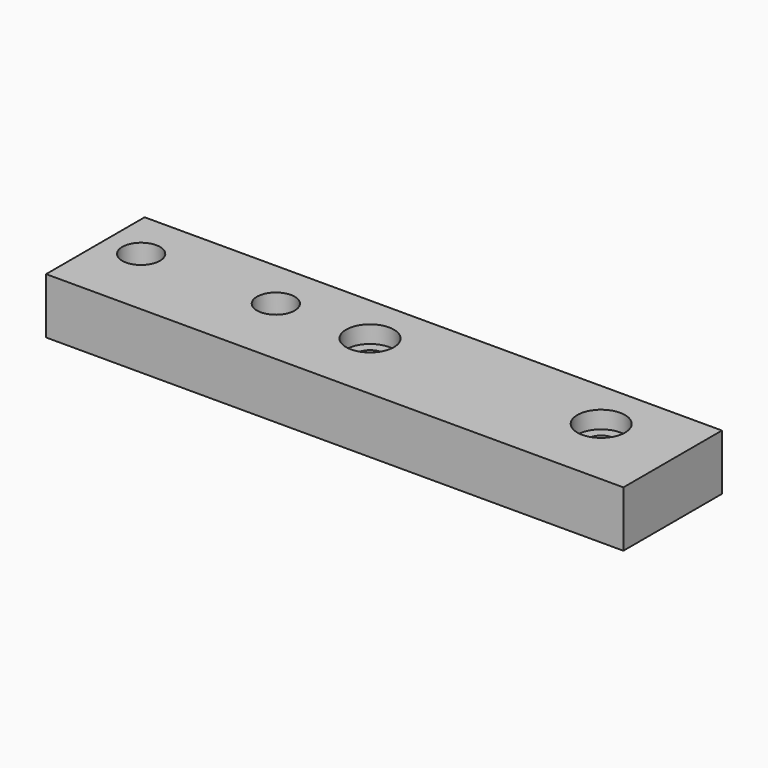
from build123d import *

# Parameters (mm, degrees)
F1_DEPTH = 13
F2_R     = 1.35
F2_R_2   = 1.75
F3_DEPTH = 7.25
F2_R_3   = 2.45
F4_DEPTH = 5.25
F2_R_4   = 3.1
F5_DEPTH = 2.25
F6_W     = 72
F6_H     = 3
F7_DEPTH = 7.25


with BuildPart() as f1:
    # F0 (on Front) → F1 (new body)
    with BuildSketch(Plane.XZ):
        Polygon((0, -4.25), (0, 0), (45, 0), (45, 3), (0, 3), (-27, 3), (-27, -4.25), align=None)
    extrude(amount=F1_DEPTH)

    # F2 (on face) → F3 (cut, through all)
    with BuildSketch(Plane.XY.offset(3)):
        with Locations((-4.75, -6.5)):
            Circle(F2_R)
        with Locations((-22.25, -6.5)):
            Circle(F2_R)
        with Locations((7.485, -6.5)):
            Circle(F2_R_2)
        with Locations((37.515, -6.5)):
            Circle(F2_R_2)
    extrude(amount=-F3_DEPTH, mode=Mode.SUBTRACT)

    # F2 (on face) → F4 (cut, through all)
    with BuildSketch(Plane.XY.offset(3)):
        with Locations((-4.75, -6.5)):
            Circle(F2_R_3)
        with Locations((-4.75, -6.5)):
            Circle(F2_R, mode=Mode.SUBTRACT)
        with Locations((-22.25, -6.5)):
            Circle(F2_R_3)
        with Locations((-22.25, -6.5)):
            Circle(F2_R, mode=Mode.SUBTRACT)
    extrude(amount=-F4_DEPTH, mode=Mode.SUBTRACT)

    # F2 (on face) → F5 (cut, through all)
    with BuildSketch(Plane.XY.offset(3)):
        with Locations((7.485, -6.5)):
            Circle(F2_R_4)
        with Locations((7.485, -6.5)):
            Circle(F2_R_2, mode=Mode.SUBTRACT)
        with Locations((37.515, -6.5)):
            Circle(F2_R_4)
        with Locations((37.515, -6.5)):
            Circle(F2_R_2, mode=Mode.SUBTRACT)
    extrude(amount=-F5_DEPTH, mode=Mode.SUBTRACT)

    # F6 (on face) → F7 (join, through all)
    with BuildSketch(Plane.XY.offset(3)):
        with Locations((9, -14.5)):
            Rectangle(F6_W, F6_H)
        Polygon((45, 0), (45, -13), (45, -16), (48, -16), (48, 0), align=None)
    extrude(amount=-F7_DEPTH)


solid = f1.part
